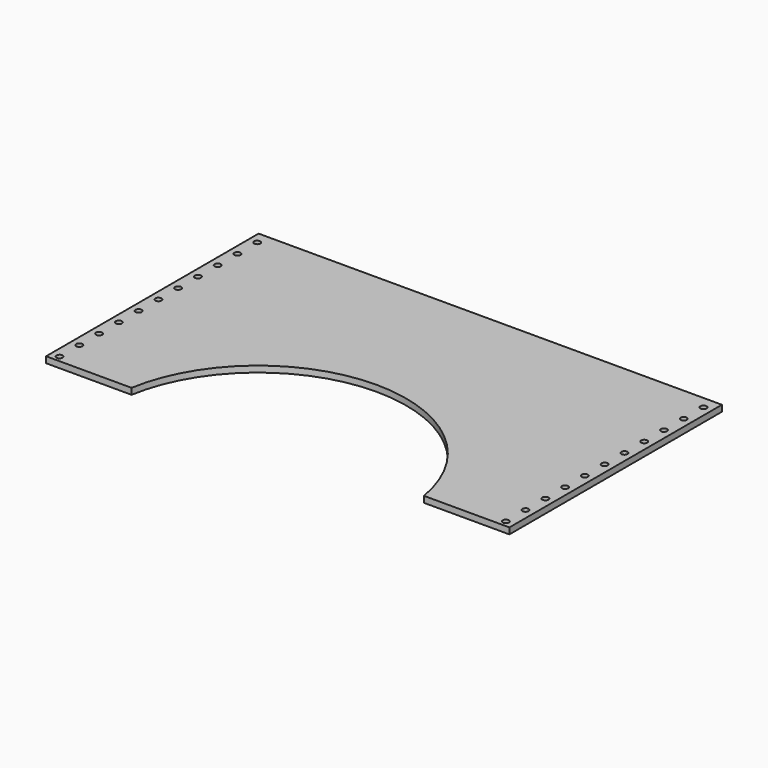
from build123d import *

# Parameters (mm, degrees)
F0_R     = 3.175
F0_W     = 15.113
F0_H     = 273.05
F1_DEPTH = 6.35


with BuildPart() as f1:
    # F0 (on Top) → F1 (new body)
    with BuildSketch(Plane.XY):
        with BuildLine():
            Line((223.012, 136.525), (-238.125, 136.525))
            Line((-238.125, 136.525), (-238.125, -136.525))
            Line((-238.125, -136.525), (-150.2684264907, -136.525))
            ThreePointArc((-150.2684264907, -136.525), (0, -9.525), (150.2684264907, -136.525))
            Line((150.2684264907, -136.525), (223.012, -136.525))
            Line((223.012, -136.525), (223.012, 136.525))
        make_face()
        with Locations((-229.362, -130.175)):
            Circle(F0_R, mode=Mode.SUBTRACT)
        with Locations((-229.362, -104.775)):
            Circle(F0_R, mode=Mode.SUBTRACT)
        with Locations((-229.362, -79.375)):
            Circle(F0_R, mode=Mode.SUBTRACT)
        with Locations((-229.362, -53.975)):
            Circle(F0_R, mode=Mode.SUBTRACT)
        with Locations((-229.362, -28.575)):
            Circle(F0_R, mode=Mode.SUBTRACT)
        with Locations((-229.362, -3.175)):
            Circle(F0_R, mode=Mode.SUBTRACT)
        with Locations((-229.362, 22.225)):
            Circle(F0_R, mode=Mode.SUBTRACT)
        with Locations((-229.362, 47.625)):
            Circle(F0_R, mode=Mode.SUBTRACT)
        with Locations((-229.362, 73.025)):
            Circle(F0_R, mode=Mode.SUBTRACT)
        with Locations((-229.362, 98.425)):
            Circle(F0_R, mode=Mode.SUBTRACT)
        with Locations((-229.362, 123.825)):
            Circle(F0_R, mode=Mode.SUBTRACT)
        with Locations((230.5685, 0)):
            Rectangle(F0_W, F0_H)
        with Locations((229.362, -130.175)):
            Circle(F0_R, mode=Mode.SUBTRACT)
        with Locations((229.362, -104.775)):
            Circle(F0_R, mode=Mode.SUBTRACT)
        with Locations((229.362, -79.375)):
            Circle(F0_R, mode=Mode.SUBTRACT)
        with Locations((229.362, -53.975)):
            Circle(F0_R, mode=Mode.SUBTRACT)
        with Locations((229.362, -28.575)):
            Circle(F0_R, mode=Mode.SUBTRACT)
        with Locations((229.362, -3.175)):
            Circle(F0_R, mode=Mode.SUBTRACT)
        with Locations((229.362, 22.225)):
            Circle(F0_R, mode=Mode.SUBTRACT)
        with Locations((229.362, 47.625)):
            Circle(F0_R, mode=Mode.SUBTRACT)
        with Locations((229.362, 73.025)):
            Circle(F0_R, mode=Mode.SUBTRACT)
        with Locations((229.362, 98.425)):
            Circle(F0_R, mode=Mode.SUBTRACT)
        with Locations((229.362, 123.825)):
            Circle(F0_R, mode=Mode.SUBTRACT)
        with BuildLine():
            Line((223.012, 136.525), (-238.125, 136.525))
            Line((-238.125, 136.525), (-238.125, -136.525))
            Line((-238.125, -136.525), (-150.2684264907, -136.525))
            ThreePointArc((-150.2684264907, -136.525), (0, -9.525), (150.2684264907, -136.525))
            Line((150.2684264907, -136.525), (223.012, -136.525))
            Line((223.012, -136.525), (223.012, 136.525))
        make_face()
        with Locations((-229.362, -130.175)):
            Circle(F0_R, mode=Mode.SUBTRACT)
        with Locations((-229.362, -104.775)):
            Circle(F0_R, mode=Mode.SUBTRACT)
        with Locations((-229.362, -79.375)):
            Circle(F0_R, mode=Mode.SUBTRACT)
        with Locations((-229.362, -53.975)):
            Circle(F0_R, mode=Mode.SUBTRACT)
        with Locations((-229.362, -28.575)):
            Circle(F0_R, mode=Mode.SUBTRACT)
        with Locations((-229.362, -3.175)):
            Circle(F0_R, mode=Mode.SUBTRACT)
        with Locations((-229.362, 22.225)):
            Circle(F0_R, mode=Mode.SUBTRACT)
        with Locations((-229.362, 47.625)):
            Circle(F0_R, mode=Mode.SUBTRACT)
        with Locations((-229.362, 73.025)):
            Circle(F0_R, mode=Mode.SUBTRACT)
        with Locations((-229.362, 98.425)):
            Circle(F0_R, mode=Mode.SUBTRACT)
        with Locations((-229.362, 123.825)):
            Circle(F0_R, mode=Mode.SUBTRACT)
    extrude(amount=F1_DEPTH)


solid = f1.part
